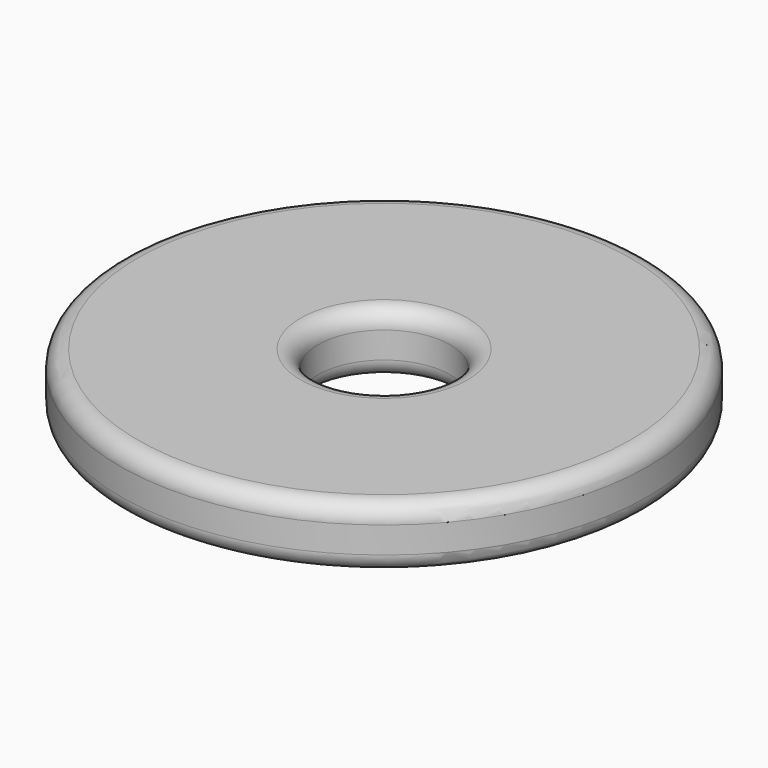
from build123d import *

# Parameters (mm, degrees)
F0_R     = 30
F1_DEPTH = 7
F3_R     = 7.5
F4_DEPTH = 25
F5_R     = 2
F6_R     = 2


with BuildPart() as f1:
    # F0 (on Top) → F1 (new body)
    with BuildSketch(Plane.XY):
        Circle(F0_R)
    extrude(amount=F1_DEPTH)

    # F3 (on face) → F4 (cut)
    with BuildSketch(Plane.XY.offset(7)):
        Circle(F3_R)
    extrude(amount=-F4_DEPTH, mode=Mode.SUBTRACT)

    # F5
    f5_edges = [f1.edges().sort_by_distance(p)[0] for p in [
        (-7.5, 0, 7),
        (-7.5, 0, 0),
    ]]
    fillet(f5_edges, radius=F5_R)

    # F6
    f6_edges = [f1.edges().sort_by_distance(p)[0] for p in [
        (-30, 0, 7),
        (-30, 0, 0),
    ]]
    fillet(f6_edges, radius=F6_R)


solid = f1.part
